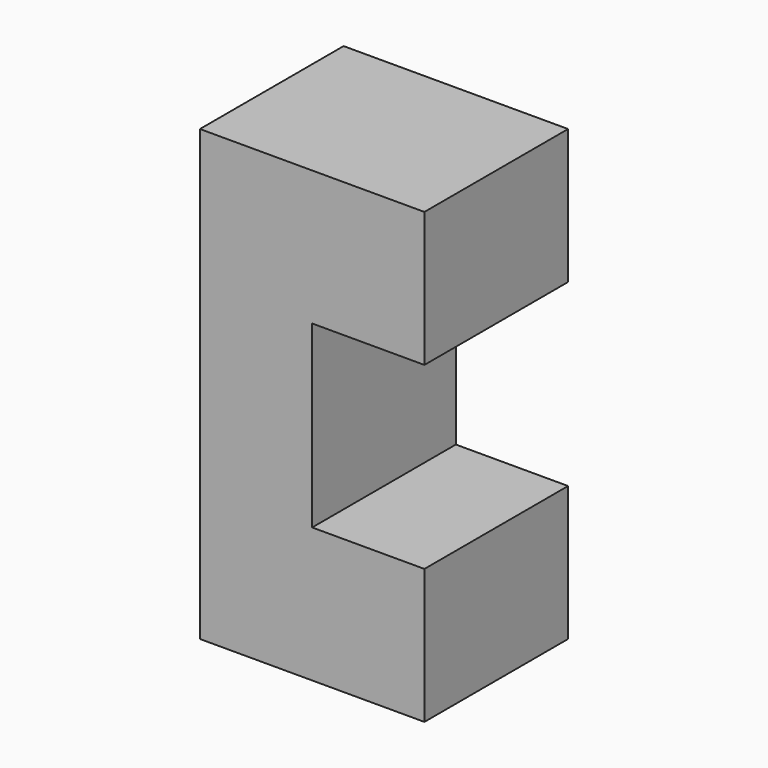
from build123d import *

# Parameters (mm, degrees)
F0_W     = 6.35
F0_H     = 12.7
F1_DEPTH = 5.08
F2_W     = 5.08
F2_H     = 5.08
F3_DEPTH = 3.175


with BuildPart() as f1:
    # F0 (on Front) → F1 (new body)
    with BuildSketch(Plane.XZ):
        with Locations((-3.175, 6.35)):
            Rectangle(F0_W, F0_H)
    extrude(amount=F1_DEPTH)

    # F2 (on face) → F3 (cut)
    with BuildSketch(Plane.YZ):
        with Locations((-2.54, 6.35)):
            Rectangle(F2_W, F2_H)
    extrude(amount=-F3_DEPTH, mode=Mode.SUBTRACT)


solid = f1.part
